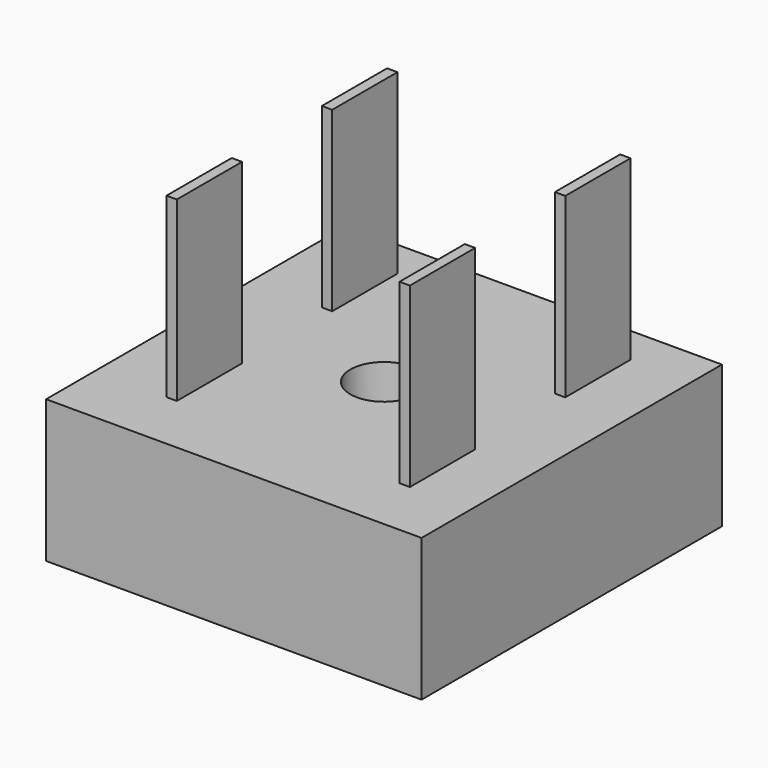
from build123d import *

# Parameters (mm, degrees)
F0_W     = 29
F0_H     = 29
F1_DEPTH = 11
F2_R     = 2.6
F3_DEPTH = 11.001
F4_W     = 0.8
F4_H     = 6.3
F5_DEPTH = 13.7


with BuildPart() as f1:
    # F0 (on Top) → F1 (new body)
    with BuildSketch(Plane.XY):
        Rectangle(F0_W, F0_H)
    extrude(amount=F1_DEPTH)

    # F2 (on face) → F3 (cut, through all)
    with BuildSketch(Plane.XY.offset(11)):
        Circle(F2_R)
    extrude(amount=-F3_DEPTH, mode=Mode.SUBTRACT)

    # F4 (on face) → F5 (join)
    with BuildSketch(Plane.XY.offset(11)):
        with Locations((9.4, 8.4)):
            Rectangle(F4_W, F4_H)
        with Locations((9.4, -6.6)):
            Rectangle(F4_W, F4_H)
        with Locations((-8.6, 8.4)):
            Rectangle(F4_W, F4_H)
        with Locations((-8.6, -6.6)):
            Rectangle(F4_W, F4_H)
    extrude(amount=F5_DEPTH)


solid = f1.part
